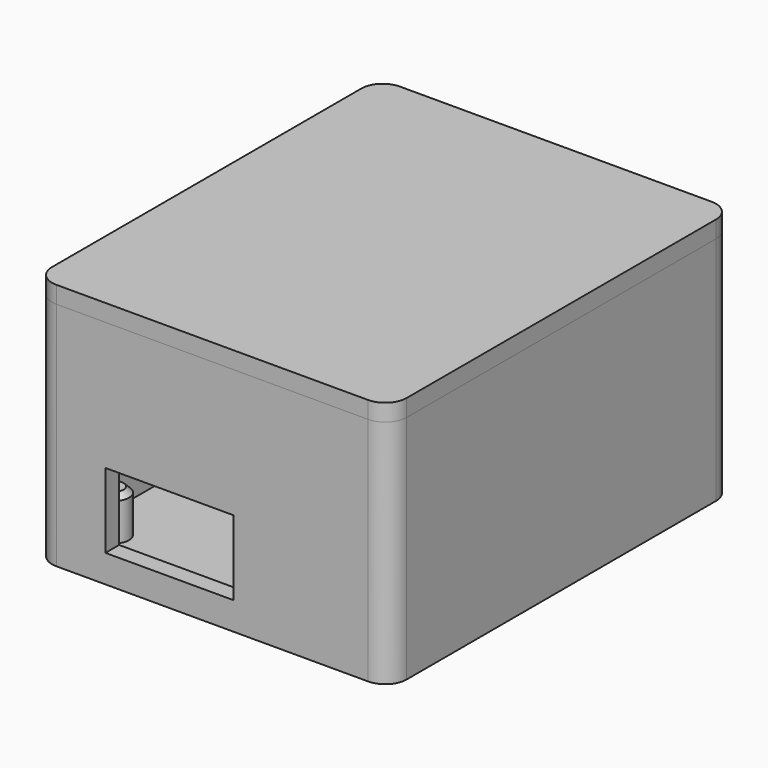
from build123d import *

# Parameters (mm, degrees)
F0_W          = 33.2
F0_H          = 40.2
F0_W_2        = 30
F0_H_2        = 37
F1_DEPTH      = 20
F1_DEPTH_BACK = 1.6
F2_DEPTH      = 1.6
F3_R          = 1.35
F4_DEPTH      = 4
F5_SIZE       = 0.5
F6_W          = 33.2
F6_H          = 40.2
F6_W_2        = 30
F6_H_2        = 37
F7_DEPTH      = 1.6
F8_W          = 29.2
F8_H          = 36.2
F9_DEPTH      = 1.6
F10_W         = 12
F10_H         = 7
F11_DEPTH     = 1.6
F12_R         = 2
F12_2_R       = 2


with BuildPart() as f1:
    # F0 (on Top) → F1 (new body, two sides)
    with BuildSketch(Plane.XY) as f1_sk:
        Rectangle(F0_W, F0_H)
        Rectangle(F0_W_2, F0_H_2, mode=Mode.SUBTRACT)
    extrude(amount=F1_DEPTH)
    extrude(f1_sk.sketch, amount=-F1_DEPTH_BACK)

    # F0 (on Top) → F2 (join)
    with BuildSketch(Plane.XY):
        Rectangle(F0_W_2, F0_H_2)
    extrude(amount=-F2_DEPTH)

    # F3 (on face) → F4 (join)
    with BuildSketch(Plane.XY):
        with Locations((12.46, 15.96)):
            Circle(F3_R)
        with Locations((12.46, -15.96)):
            Circle(F3_R)
        with Locations((-12.46, -15.96)):
            Circle(F3_R)
        with Locations((-12.46, 15.96)):
            Circle(F3_R)
    extrude(amount=F4_DEPTH)

    # F5
    f5_edges = [f1.edges().sort_by_distance(p)[0] for p in [
        (-13.81, 15.96, 4),
        (11.11, 15.96, 4),
        (11.11, -15.96, 4),
        (-13.81, -15.96, 4),
    ]]
    chamfer(f5_edges, length=F5_SIZE)

    # F10 (on face) → F11 (cut, through all)
    with BuildSketch(Plane.XZ.offset(20.1)):
        with Locations((-4, 4.5)):
            Rectangle(F10_W, F10_H)
    extrude(amount=-F11_DEPTH, mode=Mode.SUBTRACT)

    # F12
    f12_edges = [f1.edges().sort_by_distance(p)[0] for p in [
        (16.6, -20.1, 9.2),
        (16.6, 20.1, 9.2),
        (-16.6, 20.1, 9.2),
        (-16.6, -20.1, 9.2),
    ]]
    fillet(f12_edges, radius=F12_R)


with BuildPart() as f7:
    # F6 (on face) → F7 (new body)
    with BuildSketch(Plane.XY.offset(20)):
        Rectangle(F6_W, F6_H)
        Rectangle(F6_W_2, F6_H_2, mode=Mode.SUBTRACT)
        Rectangle(F6_W_2, F6_H_2)
    extrude(amount=F7_DEPTH)

    # F8 (on face) → F9 (join)
    with BuildSketch(Plane(origin=(0, 0, 20), x_dir=(1, 0, 0), z_dir=(0, 0, -1))):
        Rectangle(F8_W, F8_H)
    extrude(amount=F9_DEPTH)

    # F12#2
    f12_2_edges = [f7.edges().sort_by_distance(p)[0] for p in [
        (16.6, -20.1, 20.8),
        (-16.6, 20.1, 20.8),
        (16.6, 20.1, 20.8),
        (-16.6, -20.1, 20.8),
    ]]
    fillet(f12_2_edges, radius=F12_2_R)


solid = Compound([f1.part, f7.part])
